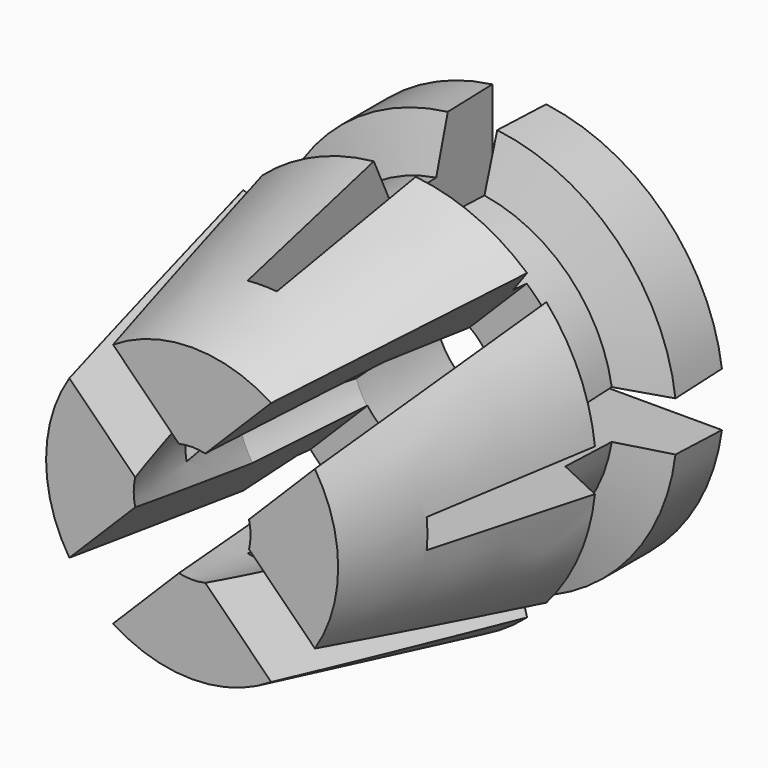
from build123d import *

# Parameters (mm, degrees)
F3_DEPTH = 12.7
F4_COUNT = 2
F4_ANGLE = 90
F8_DEPTH = 12.7
F9_COUNT = 2
F9_ANGLE = 90


with BuildPart() as f1:
    # F0 (on Top) → F1 (revolve)
    with BuildSketch(Plane.XY):
        Polygon((7, 14), (3, 14), (2.5, 10), (3.275, 6), (2, 0), (5, 0), (6.889415849, 8.6733910541), (5.25, 9.4779638621), (5.25, 11.4779638621), (7, 12), align=None)
    revolve(axis=Axis((0, 3.7037534639, 0), (0, -1, 0)))


with BuildPart() as f3:
    # F2 (on Top) → F3 (new body, symmetric)
    with BuildSketch(Plane.XY):
        Polygon((0, 3), (0.5, 3), (1, 16), (0, 16), (-1, 16), (-0.5, 3), align=None)
    extrude(amount=F3_DEPTH, both=True)


with BuildPart() as f4_1:
    # F4: instance of F3
    add(f3.part.rotate(Axis((0, 3.7037534639, 0), (0, -1, 0)), 1 * F4_ANGLE / (F4_COUNT - 1)))


with BuildPart() as f1_1:
    add(f1.part)

    # F5: cut F3, F4_1
    add(f3.part, mode=Mode.SUBTRACT)
    add(f4_1.part, mode=Mode.SUBTRACT)


with BuildPart() as f8:
    # F7 (on line) → F8 (new body, symmetric)
    with BuildSketch(Plane(origin=(0, 0, 0), x_dir=(0.7071067812, 0, 0.7071067812), z_dir=(0.7071067812, 0, -0.7071067812))):
        Polygon((0.375, -10.0240074396), (1.125, 0.9756837906), (-1.125, 0.9756837906), (-0.375, -10.0240074396), align=None)
    extrude(amount=F8_DEPTH, both=True)


with BuildPart() as f9_1:
    # F9: instance of F8
    add(f8.part.rotate(Axis((0, 3.7037534639, 0), (0, -1, 0)), 1 * F9_ANGLE / (F9_COUNT - 1)))


with BuildPart() as f1_2:
    add(f1_1.part)

    # F10: cut F8, F9_1
    add(f8.part, mode=Mode.SUBTRACT)
    add(f9_1.part, mode=Mode.SUBTRACT)


solid = f1_2.part
